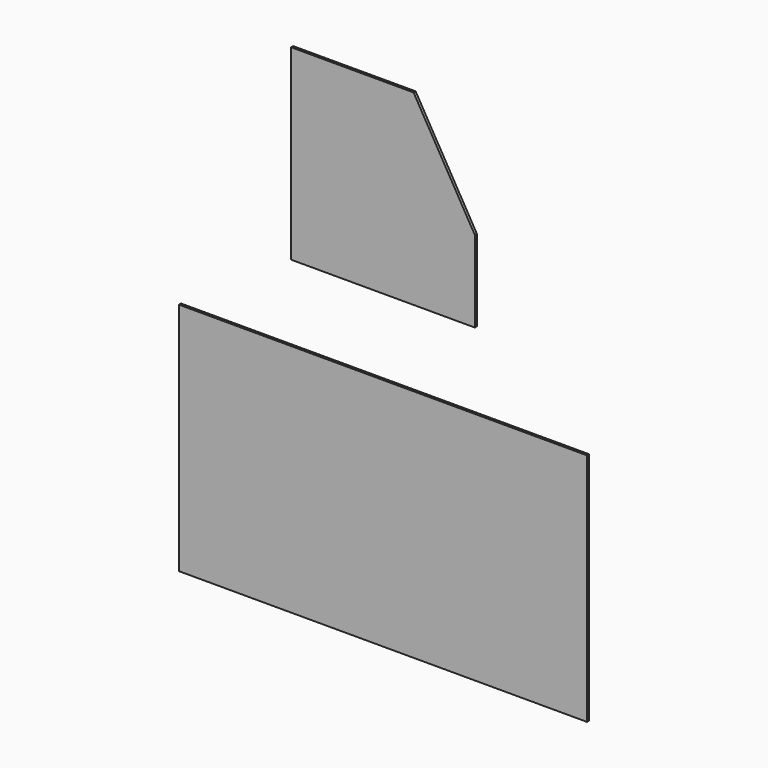
from build123d import *

# Parameters (mm, degrees)
F0_W     = 762
F0_H     = 438.15
F1_DEPTH = 4.7625
F2_W     = 342.9
F2_H     = 349.25
F3_DEPTH = 4.7625
F5_DEPTH = 4.7625


with BuildPart() as f1:
    # F0 (on Front) → F1 (new body)
    with BuildSketch(Plane.XZ):
        Rectangle(F0_W, F0_H)
    extrude(amount=F1_DEPTH)


with BuildPart() as f3:
    # F2 (on Front) → F3 (new body)
    with BuildSketch(Plane.XZ):
        with Locations((0, 535.694007)):
            Rectangle(F2_W, F2_H)
    extrude(amount=F3_DEPTH)

    # F4 (on face) → F5 (cut, through all)
    with BuildSketch(Plane.XZ.offset(4.7625)):
        Polygon((57.15, 710.319007), (171.45, 513.469007), (171.45, 710.319007), align=None)
    extrude(amount=-F5_DEPTH, mode=Mode.SUBTRACT)


solid = Compound([f1.part, f3.part])
